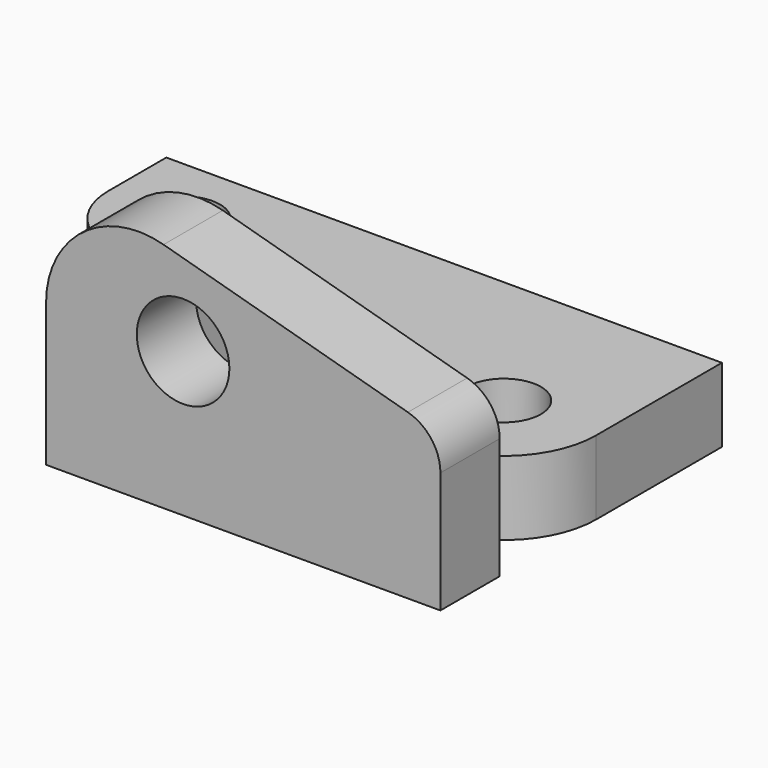
from build123d import *

# Parameters (mm, degrees)
F0_R     = 10
F1_DEPTH = 20
F2_R     = 12.5
F3_DEPTH = 20


with BuildPart() as f1:
    # F0 (on Top) → F1 (new body)
    with BuildSketch(Plane.XY):
        with BuildLine():
            Line((0, 75), (-150, 75))
            Line((-150, 75), (-150, 55.365566))
            ThreePointArc((-150, 55.365566), (-145.859777, 43.180843), (-135.153253, 36.040867))
            Line((-135.153253, 36.040867), (-31.441566, 8.384418))
            ThreePointArc((-31.441566, 8.384418), (-9.769096, 12.71557), (0, 32.540291))
            Line((0, 32.540291), (0, 75))
        make_face()
        with Locations((-25.131382, 32.824382)):
            Circle(F0_R, mode=Mode.SUBTRACT)
        with Locations((-129.973069, 55.591617)):
            Circle(F0_R, mode=Mode.SUBTRACT)
    extrude(amount=F1_DEPTH)


with BuildPart() as f3:
    # F2 (on Front) → F3 (new body)
    with BuildSketch(Plane.XZ):
        with BuildLine():
            Line((-106.459646, -0.25874), (0, -0.25874))
            Line((0, -0.25874), (0, 32.446328))
            ThreePointArc((0, 32.446328), (-2.443489, 39.703951), (-8.778849, 44.005921))
            Line((-8.778849, 44.005921), (-74.748914, 62.388884))
            ThreePointArc((-74.748914, 62.388884), (-96.579694, 58.215798), (-106.459646, 38.306399))
            Line((-106.459646, 38.306399), (-106.459646, -0.25874))
        make_face()
        with Locations((-69.472119, 38.726732)):
            Circle(F2_R, mode=Mode.SUBTRACT)
    extrude(amount=F3_DEPTH)


solid = Compound([f1.part, f3.part])
